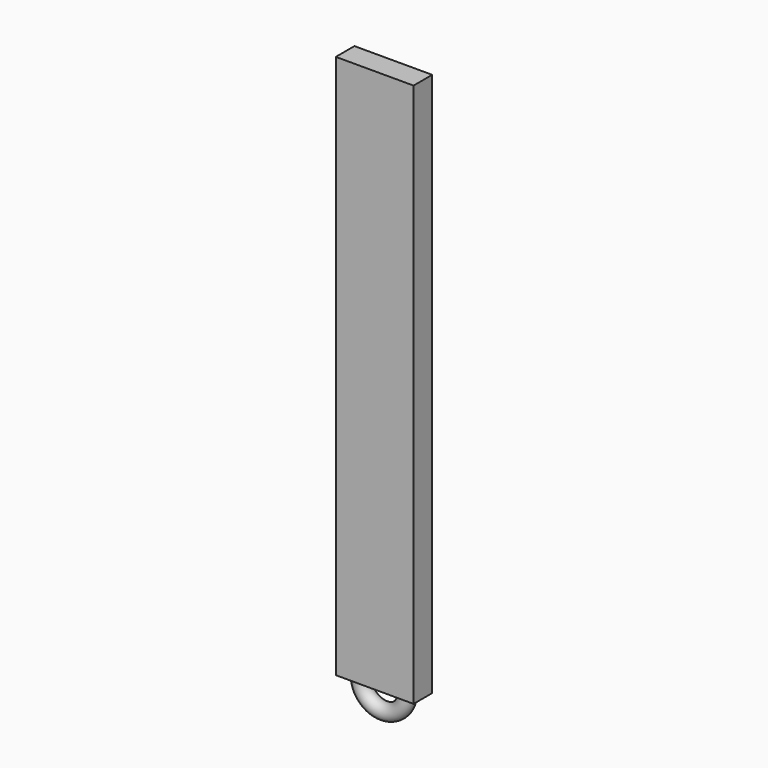
from build123d import *

# Parameters (mm, degrees)
F0_W     = 50
F0_H     = 15
F1_DEPTH = 350
F2_R     = 5


with BuildPart() as f1:
    # F0 (on Top) → F1 (new body)
    with BuildSketch(Plane.XY):
        Rectangle(F0_W, F0_H)
    extrude(amount=F1_DEPTH)

    # F2 (on face) → F3 (revolve)
    with BuildSketch(Plane(origin=(0, 0, 0), x_dir=(1, 0, 0), z_dir=(0, 0, -1))):
        with Locations((15, 0)):
            Circle(F2_R)
        with Locations((-15, 0)):
            Circle(F2_R)
    revolve(axis=Axis((0, -1.103515, 0), (0, -1, 0)))


solid = f1.part
